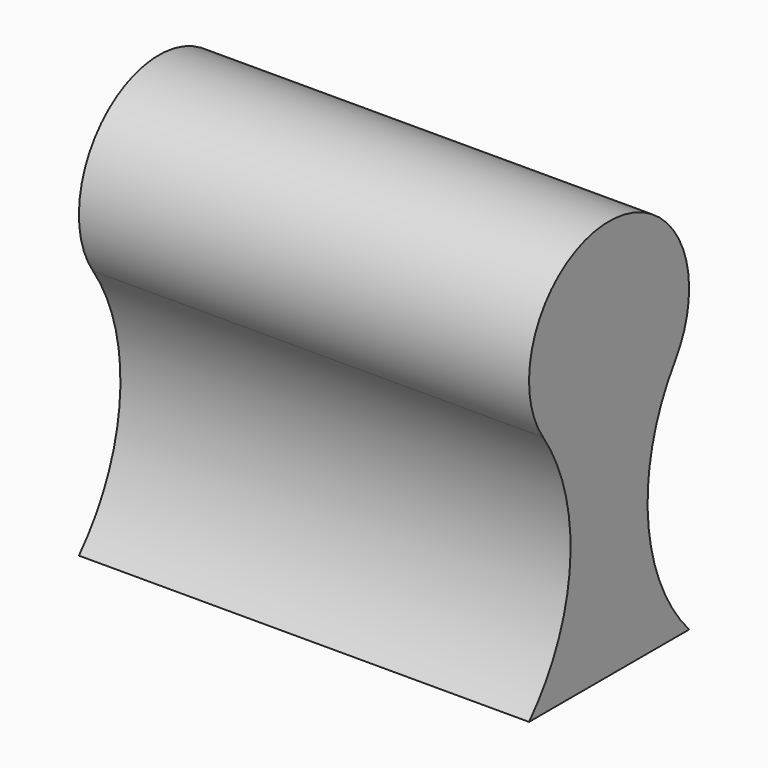
from build123d import *

# Parameters (mm, degrees)
F1_DEPTH = 57.15


with BuildPart() as f1:
    # F0 (on Right) → F1 (new body)
    with BuildSketch(Plane.YZ):
        with BuildLine():
            ThreePointArc((-10.471971, 30.91475), (-6.176251, 15.067495), (-12.7, 0))
            Line((-12.7, 0), (12.7, 0))
            ThreePointArc((12.7, 0), (6.176251, 15.067495), (10.471971, 30.91475))
            ThreePointArc((10.471971, 30.91475), (0, 50.8), (-10.471971, 30.91475))
        make_face()
    extrude(amount=F1_DEPTH)


solid = f1.part
